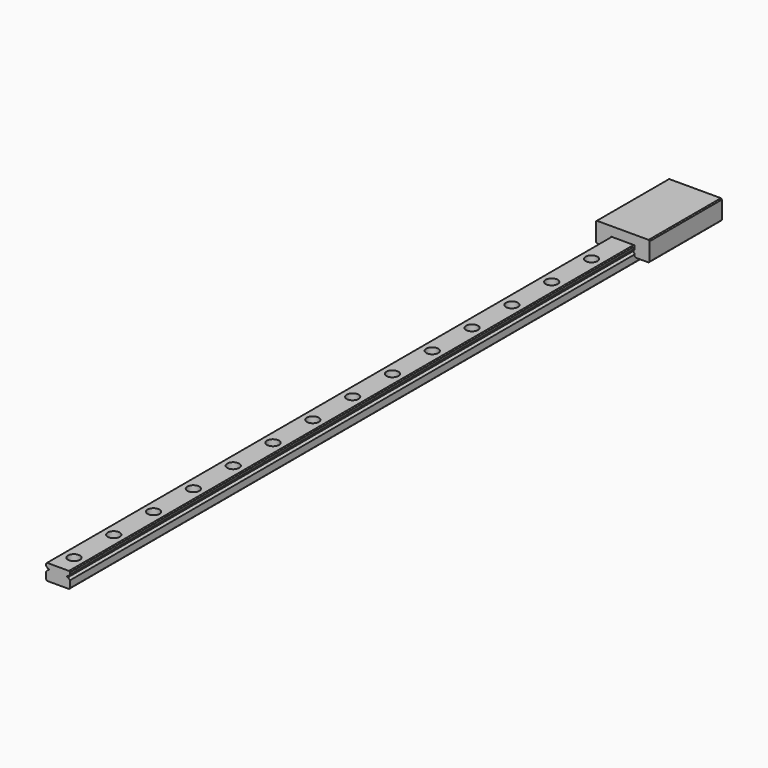
from build123d import *

# Parameters (mm, degrees)
F1_DEPTH       = 400
F2_SIZE        = 0.5
F4_D           = 3.5
F4_CBORE_D     = 6
F4_CBORE_DEPTH = 4.5
F6_DEPTH       = 45.4
F7_SIZE        = 0.5


with BuildPart() as f1:
    # F0 (on Front) → F1 (new body)
    with BuildSketch(Plane.XZ):
        Polygon((-6, 0), (0, 0), (6, 0), (6, 4), (5, 5), (4.5, 5), (4.5, 5.5), (5, 5.5), (6, 6.5), (6, 8), (0, 8), (-6, 8), (-6, 6.5), (-5, 5.5), (-4.5, 5.5), (-4.5, 5), (-5, 5), (-6, 4), align=None)
    extrude(amount=F1_DEPTH)

    # F2
    f2_edges = [f1.edges().sort_by_distance(p)[0] for p in [
        (6, -200, 8),
        (-6, -200, 8),
        (6, -200, 0),
        (-6, -200, 0),
    ]]
    chamfer(f2_edges, length=F2_SIZE)

    # F4 (through all)
    with Locations(Plane.XY.offset(8)):
        with Locations((0, -390), (0, -365), (0, -340), (0, -315), (0, -290), (0, -265), (0, -240), (0, -215), (0, -190), (0, -165), (0, -115), (0, -140), (0, -90), (0, -65), (0, -40), (0, -15)):
            CounterBoreHole(F4_D / 2, F4_CBORE_D / 2, F4_CBORE_DEPTH)


with BuildPart() as f6:
    # F5 (on Front) → F6 (new body)
    with BuildSketch(Plane.XZ):
        Polygon((13.5, 12.688212), (0, 12.688212), (-13.5, 12.688212), (-13.5, 2.688212), (-6, 2.688212), (-6, 4.282843), (-5.3, 4.982843), (-5.3, 5.482843), (-6, 6.182843), (-6, 8), (0, 8), (6, 8), (6, 6.182843), (5.3, 5.482843), (5.3, 4.982843), (6, 4.282843), (6, 2.688212), (13.5, 2.688212), align=None)
    extrude(amount=F6_DEPTH)

    # F7
    f7_edges = [f6.edges().sort_by_distance(p)[0] for p in [
        (13.5, -22.7, 2.688212),
        (13.5, -22.7, 12.688212),
        (-13.5, -22.7, 12.688212),
        (-13.5, -22.7, 2.688212),
        (-6, -22.7, 2.688212),
        (6, -22.7, 2.688212),
    ]]
    chamfer(f7_edges, length=F7_SIZE)


solid = Compound([f1.part, f6.part])
